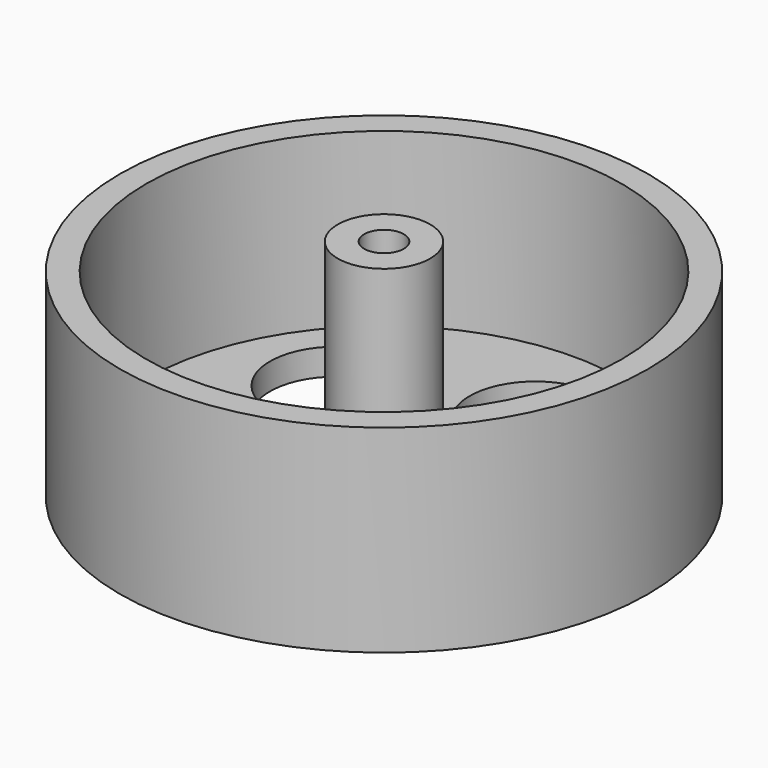
from build123d import *

# Parameters (mm, degrees)
F0_R     = 20
F1_DEPTH = 15
F2_R     = 18
F3_DEPTH = 13
F4_R     = 3.5
F4_R_2   = 1.5
F5_DEPTH = 15
F6_R     = 5
F7_DEPTH = 2


with BuildPart() as f1:
    # F0 (on Top) → F1 (new body)
    with BuildSketch(Plane.XY):
        Circle(F0_R)
    extrude(amount=F1_DEPTH)

    # F2 (on face) → F3 (cut)
    with BuildSketch(Plane.XY.offset(15)):
        Circle(F2_R)
    extrude(amount=-F3_DEPTH, mode=Mode.SUBTRACT)

    # F4 (on face) → F5 (join)
    with BuildSketch(Plane.XY.offset(2)):
        Circle(F4_R)
        Circle(F4_R_2, mode=Mode.SUBTRACT)
    extrude(amount=F5_DEPTH)

    # F6 (on face) → F7 (cut)
    with BuildSketch(Plane(origin=(0, 0, 0), x_dir=(1, 0, 0), z_dir=(0, 0, -1))):
        with Locations((10.725294, 0)):
            Circle(F6_R)
        with Locations((3.314298, -10.200361)):
            Circle(F6_R)
        with Locations((-8.676945, -6.30417)):
            Circle(F6_R)
        with Locations((-8.676945, 6.30417)):
            Circle(F6_R)
        with Locations((3.314298, 10.200361)):
            Circle(F6_R)
    extrude(amount=-F7_DEPTH, mode=Mode.SUBTRACT)


solid = f1.part
